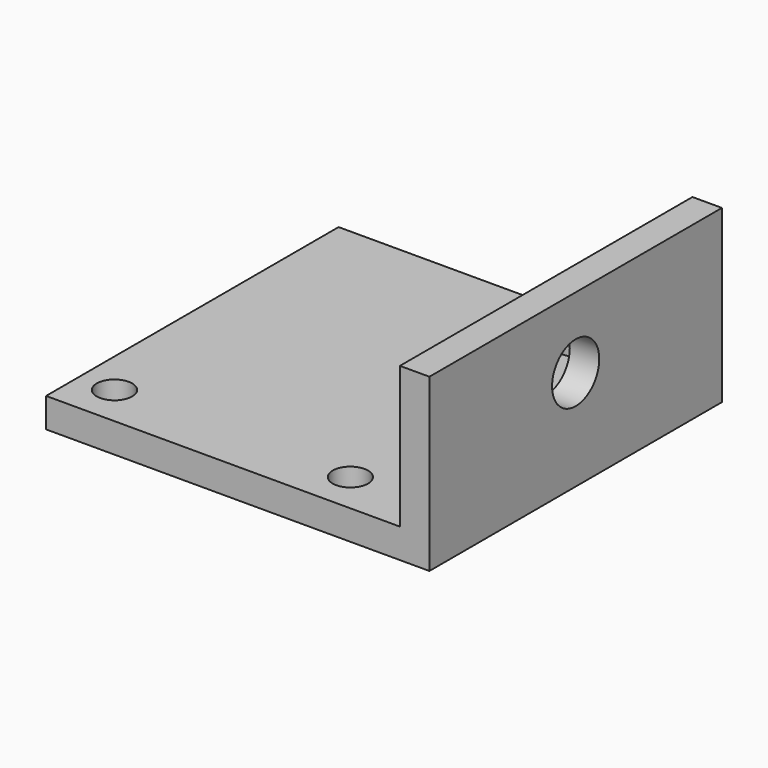
from build123d import *

# Parameters (mm, degrees)
F0_W     = 30
F0_H     = 31
F1_DEPTH = 2.5
F2_R     = 1.5
F3_DEPTH = 2.501
F4_W     = 31
F4_H     = 14.5
F5_DEPTH = 2.5
F6_R     = 2.5
F7_DEPTH = 32.501


with BuildPart() as f1:
    # F0 (on Top) → F1 (new body)
    with BuildSketch(Plane.XY):
        Rectangle(F0_W, F0_H)
    extrude(amount=F1_DEPTH)

    # F2 (on face) → F3 (cut, through all)
    with BuildSketch(Plane.XY.offset(2.5)):
        with Locations((-12, -12)):
            Circle(F2_R)
        with Locations((8, -12)):
            Circle(F2_R)
        with Locations((8, 12)):
            Circle(F2_R)
    extrude(amount=-F3_DEPTH, mode=Mode.SUBTRACT)

    # F4 (on face) → F5 (join)
    with BuildSketch(Plane.YZ.offset(15)):
        with Locations((0, 7.25)):
            Rectangle(F4_W, F4_H)
    extrude(amount=F5_DEPTH)

    # F6 (on face) → F7 (cut, through all)
    with BuildSketch(Plane.YZ.offset(17.5)):
        with Locations((0, 8.5)):
            Circle(F6_R)
    extrude(amount=-F7_DEPTH, mode=Mode.SUBTRACT)


solid = f1.part
